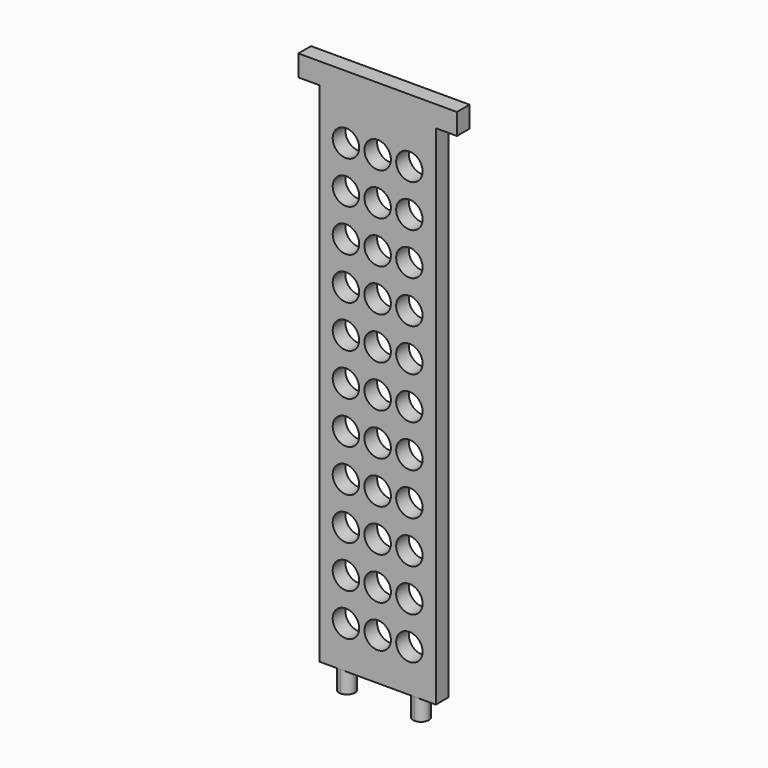
from build123d import *

# Parameters (mm, degrees)
F0_W     = 22
F0_H     = 3
F1_DEPTH = 100
F3_DEPTH = 4
F4_W     = 4
F4_H     = 3
F4_W_2   = 22
F5_DEPTH = 4
F6_R     = 2.5
F7_DEPTH = 25


with BuildPart() as f1:
    # F0 (on Top) → F1 (new body)
    with BuildSketch(Plane.XY):
        with Locations((11, -1.5)):
            Rectangle(F0_W, F0_H)
    extrude(amount=F1_DEPTH)

    # F2 (on face) → F3 (join)
    with BuildSketch(Plane(origin=(0, 0, 0), x_dir=(1, 0, 0), z_dir=(0, 0, -1))):
        with BuildLine():
            ThreePointArc((4, 0), (5.06066, 0.43934), (5.5, 1.5))
            ThreePointArc((5.5, 1.5), (5.06066, 2.56066), (4, 3))
            ThreePointArc((4, 3), (2.5, 1.5), (4, 0))
        make_face()
        with BuildLine():
            ThreePointArc((19.5, 1.5), (19.06066, 2.56066), (18, 3))
            ThreePointArc((18, 3), (16.5, 1.5), (18, 0))
            ThreePointArc((18, 0), (19.06066, 0.43934), (19.5, 1.5))
        make_face()
    extrude(amount=F3_DEPTH)

    # F4 (on face) → F5 (join)
    with BuildSketch(Plane.XY.offset(100)):
        with Locations((-2, -1.5)):
            Rectangle(F4_W, F4_H)
        with Locations((24, -1.5)):
            Rectangle(F4_W, F4_H)
        with Locations((11, -1.5)):
            Rectangle(F4_W_2, F4_H)
    extrude(amount=-F5_DEPTH)

    # F6 (on face) → F7 (cut)
    with BuildSketch(Plane.XZ.offset(3)):
        with Locations((5, 8)):
            Circle(F6_R)
        with Locations((11, 8)):
            Circle(F6_R)
        with Locations((17, 8)):
            Circle(F6_R)
        with Locations((5, 16)):
            Circle(F6_R)
        with Locations((11, 16)):
            Circle(F6_R)
        with Locations((17, 16)):
            Circle(F6_R)
        with Locations((5, 24)):
            Circle(F6_R)
        with Locations((11, 24)):
            Circle(F6_R)
        with Locations((17, 24)):
            Circle(F6_R)
        with Locations((5, 32)):
            Circle(F6_R)
        with Locations((11, 32)):
            Circle(F6_R)
        with Locations((17, 32)):
            Circle(F6_R)
        with Locations((5, 40)):
            Circle(F6_R)
        with Locations((11, 40)):
            Circle(F6_R)
        with Locations((17, 40)):
            Circle(F6_R)
        with Locations((5, 48)):
            Circle(F6_R)
        with Locations((11, 48)):
            Circle(F6_R)
        with Locations((17, 48)):
            Circle(F6_R)
        with Locations((5, 56)):
            Circle(F6_R)
        with Locations((11, 56)):
            Circle(F6_R)
        with Locations((17, 56)):
            Circle(F6_R)
        with Locations((5, 64)):
            Circle(F6_R)
        with Locations((11, 64)):
            Circle(F6_R)
        with Locations((17, 64)):
            Circle(F6_R)
        with Locations((5, 72)):
            Circle(F6_R)
        with Locations((11, 72)):
            Circle(F6_R)
        with Locations((17, 72)):
            Circle(F6_R)
        with Locations((5, 80)):
            Circle(F6_R)
        with Locations((11, 80)):
            Circle(F6_R)
        with Locations((17, 80)):
            Circle(F6_R)
        with Locations((5, 88)):
            Circle(F6_R)
        with Locations((11, 88)):
            Circle(F6_R)
        with Locations((17, 88)):
            Circle(F6_R)
    extrude(amount=-F7_DEPTH, mode=Mode.SUBTRACT)


solid = f1.part
